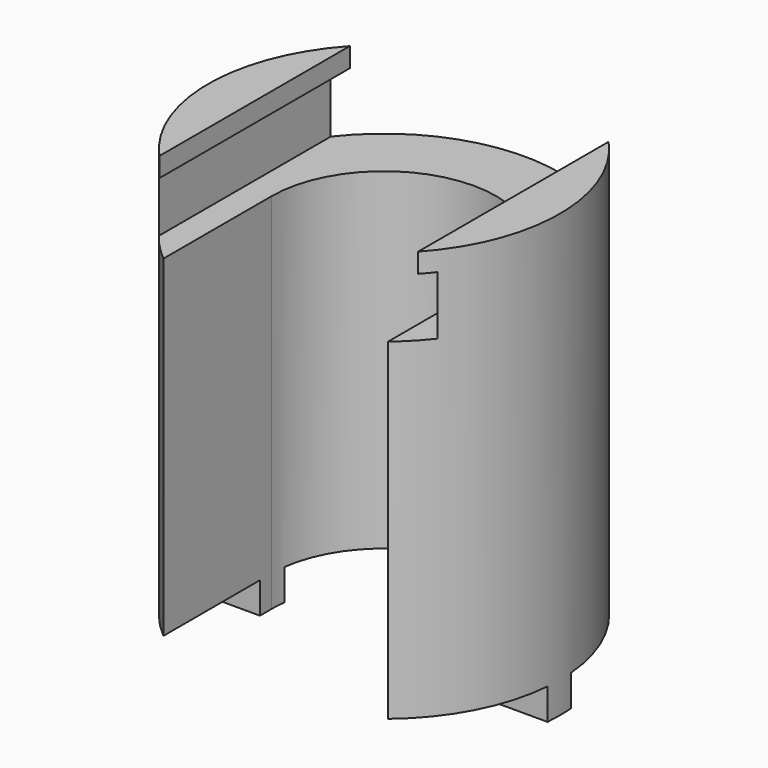
from build123d import *

# Parameters (mm, degrees)
F1_DEPTH = 45.2
F2_W     = 26.5
F2_H     = 2
F3_DEPTH = 18.001
F4_DEPTH = 13.848382
F6_DEPTH = 3.2


with BuildPart() as f1:
    # F0 (on Top) → F1 (new body)
    with BuildSketch(Plane.XY):
        with BuildLine():
            Line((11.5, 0), (11.5, -13.847382))
            ThreePointArc((11.5, -13.847382), (0, 18), (-11.5, -13.847382))
            Line((-11.5, -13.847382), (-11.5, 0))
            ThreePointArc((-11.5, 0), (0, 11.5), (11.5, 0))
        make_face()
    extrude(amount=F1_DEPTH)

    # F2 (on Front) → F3 (cut, through all)
    with BuildSketch(Plane.XZ):
        Polygon((-13.25, 43.2), (-14.25, 43.2), (-14.25, 37.2), (14.25, 37.2), (14.25, 43.2), (13.25, 43.2), align=None)
        with Locations((0, 44.2)):
            Rectangle(F2_W, F2_H)
    extrude(amount=-F3_DEPTH, mode=Mode.SUBTRACT)

    # F2 (on Front) → F4 (cut, through all)
    with BuildSketch(Plane.XZ):
        Polygon((-13.25, 43.2), (-14.25, 43.2), (-14.25, 37.2), (14.25, 37.2), (14.25, 43.2), (13.25, 43.2), align=None)
        with Locations((0, 44.2)):
            Rectangle(F2_W, F2_H)
    extrude(amount=F4_DEPTH, mode=Mode.SUBTRACT)

    # F5 (on face) → F6 (cut)
    with BuildSketch(Plane(origin=(0, 0, 0), x_dir=(1, 0, 0), z_dir=(0, 0, -1))):
        with BuildLine():
            ThreePointArc((-11.5, 13.847382), (-15.961029, 8.32139), (-17.937391, 1.5))
            Line((-17.937391, 1.5), (-11.5, 1.5))
            Line((-11.5, 1.5), (-11.5, 13.847382))
        make_face()
        with BuildLine():
            ThreePointArc((-17.937391, -1.5), (-12.727922, -12.727922), (-1.5, -17.937391))
            Line((-1.5, -17.937391), (-1.5, -11.401754))
            ThreePointArc((-1.5, -11.401754), (-8.131728, -8.131728), (-11.401754, -1.5))
            Line((-11.401754, -1.5), (-17.937391, -1.5))
        make_face()
        with BuildLine():
            Line((1.5, -11.401754), (1.5, -17.937391))
            ThreePointArc((1.5, -17.937391), (12.727922, -12.727922), (17.937391, -1.5))
            Line((17.937391, -1.5), (11.401754, -1.5))
            ThreePointArc((11.401754, -1.5), (8.131728, -8.131728), (1.5, -11.401754))
        make_face()
        with BuildLine():
            Line((11.5, 1.5), (17.937391, 1.5))
            ThreePointArc((17.937391, 1.5), (15.961029, 8.32139), (11.5, 13.847382))
            Line((11.5, 13.847382), (11.5, 1.5))
        make_face()
    extrude(amount=-F6_DEPTH, mode=Mode.SUBTRACT)


solid = f1.part
